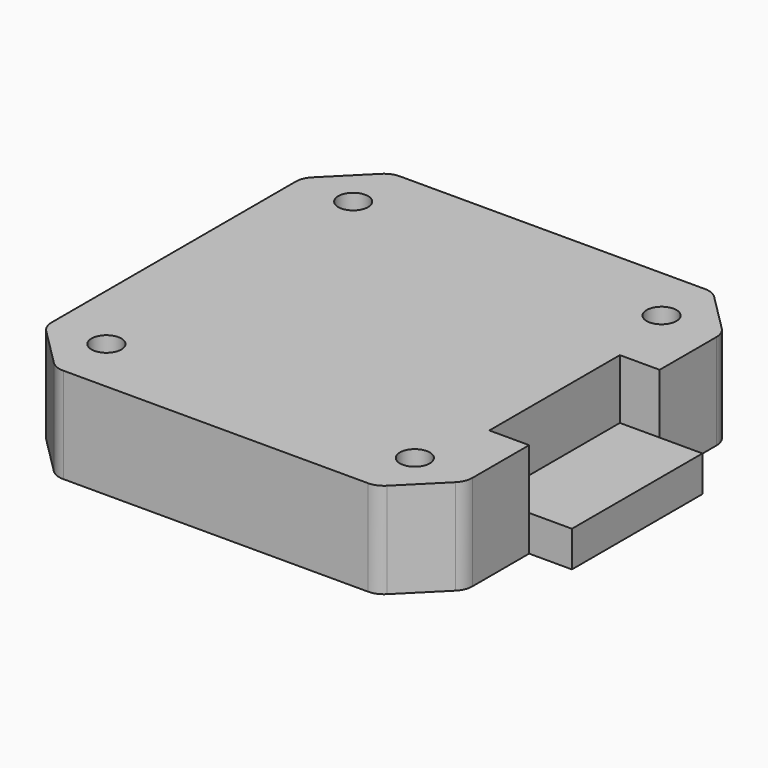
from build123d import *

# Parameters (mm, degrees)
SKETCH099_W         = 42.3
SKETCH099_H         = 42.3
PAD037_DEPTH        = 9.6
SKETCH104_W         = 4.3
SKETCH104_H         = 16.4
PAD035_DEPTH        = 3.6
CHAMFER020_SIZE     = 5
FILLET011_R         = 2
HOLE003_D           = 3
HOLE003_DEPTH       = 25
HOLE003_CBORE_D     = 5
HOLE003_CBORE_DEPTH = 5
SKETCH097_W         = 16.4
SKETCH097_H         = 6
POCKET040_DEPTH     = 4


with BuildPart() as part:
    # Sketch099 → Pad037 (new body)
    with BuildSketch(Plane.XY):
        Rectangle(SKETCH099_W, SKETCH099_H)
    extrude(amount=PAD037_DEPTH)

    # Sketch104 → Pad035 (join)
    with BuildSketch(Plane.XY):
        with Locations((23.3, 0)):
            Rectangle(SKETCH104_W, SKETCH104_H)
    extrude(amount=PAD035_DEPTH)

    # Chamfer020
    chamfer020_edges = [part.edges().sort_by_distance(p)[0] for p in [
        (21.15, -21.15, 4.8),
        (-21.15, -21.15, 4.8),
        (-21.15, 21.15, 4.8),
        (21.15, 21.15, 4.8),
    ]]
    chamfer(chamfer020_edges, length=CHAMFER020_SIZE)

    # Fillet011
    fillet011_edges = [part.edges().sort_by_distance(p)[0] for p in [
        (16.15, -21.15, 4.8),
        (21.15, -16.15, 4.8),
        (21.15, 16.15, 4.8),
        (16.15, 21.15, 4.8),
        (-16.15, 21.15, 4.8),
        (-21.15, 16.15, 4.8),
        (-16.15, -21.15, 4.8),
        (-21.15, -16.15, 4.8),
    ]]
    fillet(fillet011_edges, radius=FILLET011_R)

    # Hole003
    with Locations(Plane(origin=(0, 0, 0), x_dir=(1, 0, 0), z_dir=(0, 0, -1))):
        with Locations((-15.5, 15.5), (15.5, 15.5), (15.5, -15.5), (-15.5, -15.5)):
            CounterBoreHole(HOLE003_D / 2, HOLE003_CBORE_D / 2, HOLE003_CBORE_DEPTH, depth=HOLE003_DEPTH)

    # Sketch097 (on Face11 of Hole003) → Pocket040 (cut)
    with BuildSketch(Plane.YZ.offset(21.15)):
        with Locations((0, 6.6)):
            Rectangle(SKETCH097_W, SKETCH097_H)
    extrude(amount=-POCKET040_DEPTH, mode=Mode.SUBTRACT)


solid = part.part
